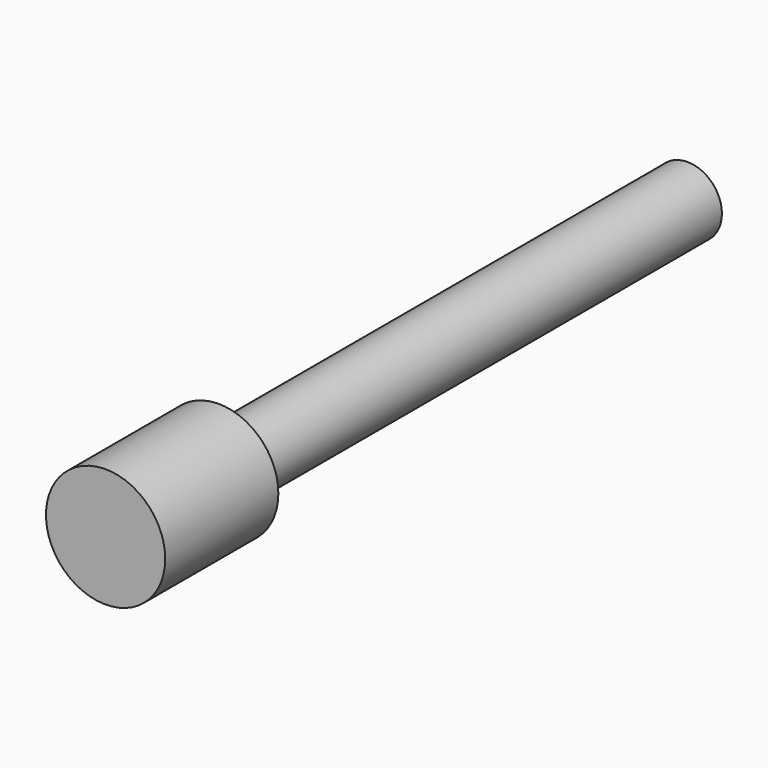
from build123d import *

# Parameters (mm, degrees)
CYLINDER_R          = 2.95
CYLINDER_DEPTH      = 7
CYLINDER001_R       = 1.7
CYLINDER001_DEPTH   = 30
CLONE053_ROLL_ANGLE = -90


with BuildPart() as m3bolthead:
    # Cylinder → Cylinder (new body)
    with BuildSketch(Plane.XY):
        Circle(CYLINDER_R)
    extrude(amount=CYLINDER_DEPTH)


with BuildPart() as clone_of_m3bolt016:
    # Cylinder001 → Cylinder001 (new body)
    with BuildSketch(Plane.XY.offset(6)):
        Circle(CYLINDER001_R)
    extrude(amount=CYLINDER001_DEPTH)

    # Fusion: union M3BoltHead
    add(m3bolthead.part)


with BuildPart() as clone_of_m3bolt016_1:
    # Clone053 roll: moved
    add(clone_of_m3bolt016.part.rotate(Axis((0, 0, 0), (1, 0, 0)), CLONE053_ROLL_ANGLE))


with BuildPart() as clone_of_m3bolt016_2:
    # Clone053 placement: moved
    add(clone_of_m3bolt016_1.part.moved(Location((31.5, -70, 8))))


solid = clone_of_m3bolt016_2.part
